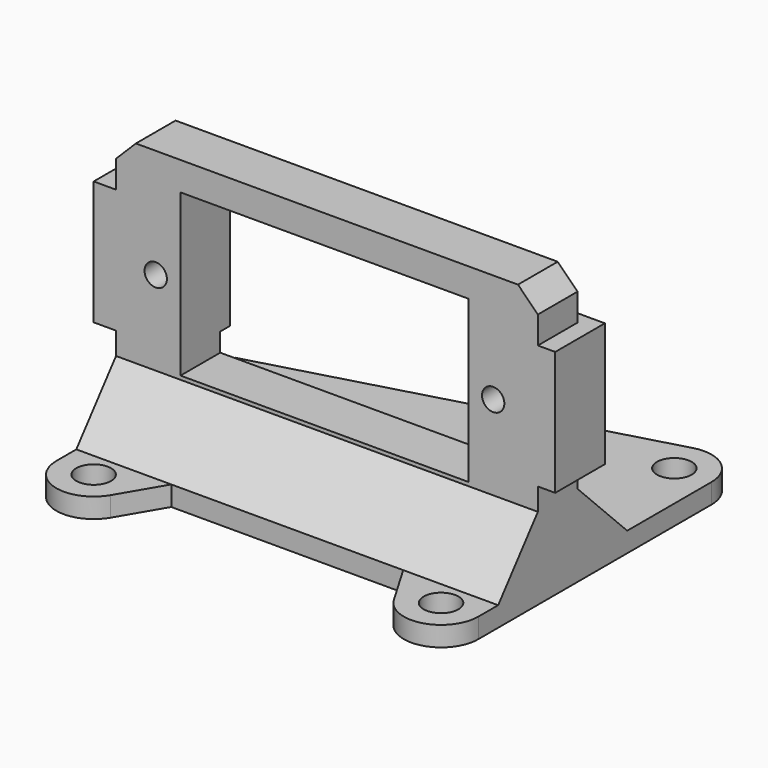
from build123d import *

# Parameters (mm, degrees)
PAD086_DEPTH            = 34
SKETCH120_R             = 0.9
POCKET033_DEPTH         = 12.001
SKETCH122_W             = 13
SKETCH122_H             = 23.2
POCKET034_DEPTH         = 12.001
SKETCH123_R             = 1.4
PAD087_DEPTH            = 1.6
SKETCH124_R             = 1.4
PAD088_DEPTH            = 1.6
SKETCH125_W             = 10
SKETCH125_H             = 7
SKETCH125_R             = 0.9
PAD089_DEPTH            = 5
CHAMFER003_SIZE         = 1.6
BODY029_PLACEMENT_ANGLE = 90


with BuildPart() as part:
    # Sketch121 → Pad086 (new body)
    with BuildSketch(Plane.XZ):
        Polygon((-12, 1.6), (-9, 1.6), (-4, 6.6), (-4, 22.2), (0, 22.2), (0, 6.6), (4, 1.6), (4, 0), (-3.601763, 0), (-12, 0), align=None)
    extrude(amount=PAD086_DEPTH)

    # Sketch120 → Pocket033 (cut, through all)
    with BuildSketch(Plane(origin=(0, 0, 0), x_dir=(0, 0, 1), z_dir=(1, 0, 0))):
        with Locations((13.4, 30.8)):
            Circle(SKETCH120_R)
        with Locations((13.4, 3.6)):
            Circle(SKETCH120_R)
    extrude(amount=-POCKET033_DEPTH, mode=Mode.SUBTRACT)

    # Sketch122 (on DatumPlane) → Pocket034 (cut, through all)
    with BuildSketch(Plane(origin=(0, 0, 0), x_dir=(0, 0, 1), z_dir=(1, 0, 0))):
        with Locations((13.4, 17.2)):
            Rectangle(SKETCH122_W, SKETCH122_H)
    extrude(amount=-POCKET034_DEPTH, mode=Mode.SUBTRACT)

    # Sketch123 → Pad087 (join)
    with BuildSketch(Plane.XY):
        with BuildLine():
            ThreePointArc((-17.5, 0), (-19.888457, -1.184712), (-20.390493, -3.803152))
            Line((-12, -34), (-20.390493, -3.803152))
            Line((-11.5, -34), (-12, -34))
            Line((-11.5, 0), (-11.5, -34))
            Line((-11.5, 0), (-17.5, 0))
        make_face()
        with Locations((-17.5, -3)):
            Circle(SKETCH123_R, mode=Mode.SUBTRACT)
    extrude(amount=PAD087_DEPTH)

    # Sketch124 → Pad088 (join)
    with BuildSketch(Plane.XY):
        with BuildLine():
            ThreePointArc((6, -34), (8.894987, -31.786799), (7.518515, -28.412702))
            Line((0, -24), (7.518515, -28.412702))
            Line((0, -34), (0, -24))
            Line((0, -34), (6, -34))
        make_face()
        with Locations((6, -31)):
            Circle(SKETCH124_R, mode=Mode.SUBTRACT)
        with BuildLine():
            ThreePointArc((7.518515, -5.587298), (8.894988, -2.213208), (6.000014, 0))
            Line((0, 0), (6.000014, 0))
            Line((0, 0), (0, -10))
            Line((0, -10), (7.518515, -5.587298))
        make_face()
        with Locations((6, -3)):
            Circle(SKETCH124_R, mode=Mode.SUBTRACT)
    extrude(amount=PAD088_DEPTH)

    # Sketch125 (on Face3 of Pad088) → Pad089 (join)
    with BuildSketch(Plane(origin=(0, 0, 0), x_dir=(0, 0, 1), z_dir=(1, 0, 0))):
        with Locations((13.4, 32.3)):
            Rectangle(SKETCH125_W, SKETCH125_H)
        with Locations((13.4, 30.8)):
            Circle(SKETCH125_R, mode=Mode.SUBTRACT)
        with Locations((13.4, 2.1)):
            Rectangle(SKETCH125_W, SKETCH125_H)
        with Locations((13.4, 3.6)):
            Circle(SKETCH125_R, mode=Mode.SUBTRACT)
    extrude(amount=-PAD089_DEPTH)

    # Chamfer003
    chamfer003_edges = [part.edges().sort_by_distance(p)[0] for p in [
        (-2, 0, 22.2),
        (-2, -34, 22.2),
    ]]
    chamfer(chamfer003_edges, length=CHAMFER003_SIZE)


with BuildPart() as part_1:
    # Body029 placement: moved
    add(part.part.moved(Location((12.020815, 35.221825, 4))).rotate(Axis((12.020815, 35.221825, 4), (0, 0, -1)), BODY029_PLACEMENT_ANGLE))


solid = part_1.part
